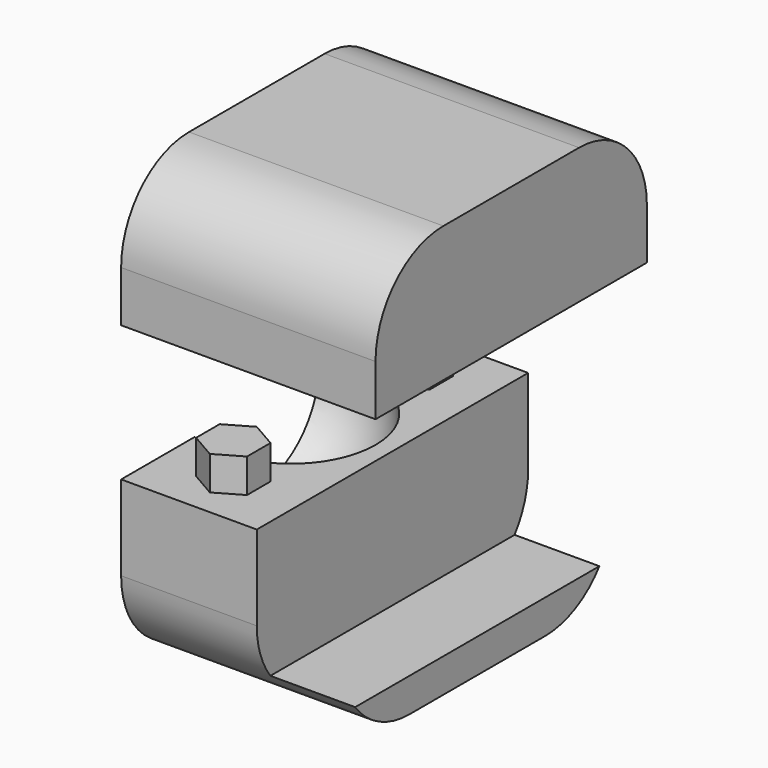
from build123d import *

# Parameters (mm, degrees)
F0_W      = 5
F0_H      = 2
F0_H_2    = 16
F1_DEPTH  = 6
F2_DEPTH  = 5
F4_DEPTH  = 2
F7_W      = 7
F7_H      = 20
F8_DEPTH  = 6.001
F9_DEPTH  = 4
F10_DEPTH = 2
F11_DEPTH = 2
F12_W     = 20
F12_H     = 2
F13_DEPTH = 5
F14_DEPTH = 2
F15_R     = 5
F15_2_R   = 5


with BuildPart() as f1:
    # F0 (on Top) → F1 (new body)
    with BuildSketch(Plane.XY):
        with BuildLine():
            Line((3.3451463953, 0), (-4.6548536047, 0))
            Line((-4.6548536047, 0), (-4.6548536047, -5.417424305))
            ThreePointArc((-4.6548536047, -5.417424305), (-3.6764018232, -5.1054684353), (-2.6548536047, -5))
            ThreePointArc((-2.6548536047, -5), (2.3451463953, -10), (-2.6548536047, -15))
            ThreePointArc((-2.6548536047, -15), (-3.6764018232, -14.8945315647), (-4.6548536047, -14.582575695))
            Line((-4.6548536047, -14.582575695), (-4.6548536047, -20))
            Line((-4.6548536047, -20), (3.3451463953, -20))
            Line((3.3451463953, -20), (3.3451463953, -18))
            Line((3.3451463953, -18), (3.3451463953, -2))
            Line((3.3451463953, -2), (3.3451463953, 0))
        make_face()
        Polygon((-0.6548536047, -18.4641016151), (-2.1548536047, -17.5980762114), (-2.1548536047, -15.8660254038), (-0.6548536047, -15), (0.8451463953, -15.8660254038), (0.8451463953, -17.5980762114), align=None, mode=Mode.SUBTRACT)
        Polygon((-2.1548536047, -4.1339745962), (-2.1548536047, -2.4019237886), (-0.6548536047, -1.5358983849), (0.8451463953, -2.4019237886), (0.8451463953, -4.1339745962), (-0.6548536047, -5), align=None, mode=Mode.SUBTRACT)
        with Locations((5.8451463953, -1)):
            Rectangle(F0_W, F0_H)
        with BuildLine():
            ThreePointArc((-2.6548536047, -5), (-3.6764018232, -5.1054684353), (-4.6548536047, -5.417424305))
            Line((-4.6548536047, -5.417424305), (-4.6548536047, -14.582575695))
            ThreePointArc((-4.6548536047, -14.582575695), (-3.6764018232, -14.8945315647), (-2.6548536047, -15))
            Line((-2.6548536047, -15), (-2.6548536047, -5))
        make_face()
        Polygon((10.3451463953, 0), (8.3451463953, 0), (8.3451463953, -2), (8.3451463953, -18), (8.3451463953, -20), (10.3451463953, -20), align=None)
        with Locations((5.8451463953, -19)):
            Rectangle(F0_W, F0_H)
        with Locations((5.8451463953, -10)):
            Rectangle(F0_W, F0_H_2)
        with BuildLine():
            ThreePointArc((-2.6548536047, -15), (2.3451463953, -10), (-2.6548536047, -5))
            Line((-2.6548536047, -5), (-2.6548536047, -15))
        make_face()
        Polygon((-2.1548536047, -15.8660254038), (-2.1548536047, -17.5980762114), (-0.6548536047, -18.4641016151), (0.8451463953, -17.5980762114), (0.8451463953, -15.8660254038), (-0.6548536047, -15), align=None)
        Polygon((-0.6548536047, -1.5358983849), (-2.1548536047, -2.4019237886), (-2.1548536047, -4.1339745962), (-0.6548536047, -5), (0.8451463953, -4.1339745962), (0.8451463953, -2.4019237886), align=None)
    extrude(amount=F1_DEPTH)

    # F0 (on Top) → F2 (cut)
    with BuildSketch(Plane.XY):
        with Locations((5.8451463953, -10)):
            Rectangle(F0_W, F0_H_2)
    extrude(amount=F2_DEPTH, mode=Mode.SUBTRACT)

    # F0 (on Top) → F3 (revolve, cut)
    with BuildSketch(Plane.XY):
        with BuildLine():
            ThreePointArc((-2.6548536047, -15), (2.3451463953, -10), (-2.6548536047, -5))
            Line((-2.6548536047, -5), (-2.6548536047, -15))
        make_face()
    revolve(axis=Axis((-2.6548536047, -10, 0), (0, 1, 0)), mode=Mode.SUBTRACT)

    # F0 (on Top) → F4 (cut)
    with BuildSketch(Plane.XY):
        Polygon((-2.1548536047, -15.8660254038), (-2.1548536047, -17.5980762114), (-0.6548536047, -18.4641016151), (0.8451463953, -17.5980762114), (0.8451463953, -15.8660254038), (-0.6548536047, -15), align=None)
        Polygon((-0.6548536047, -1.5358983849), (-2.1548536047, -2.4019237886), (-2.1548536047, -4.1339745962), (-0.6548536047, -5), (0.8451463953, -4.1339745962), (0.8451463953, -2.4019237886), align=None)
    extrude(amount=F4_DEPTH, mode=Mode.SUBTRACT)


with BuildPart() as f6_1:
    # F6: instance of F1
    add(f1.part.mirror(Plane.XY.offset(-4)))

    # F7 (on face) → F8 (cut, through all)
    with BuildSketch(Plane.XY.offset(-8)):
        with Locations((6.8451463953, -10)):
            Rectangle(F7_W, F7_H)
    extrude(amount=-F8_DEPTH, mode=Mode.SUBTRACT)

    # F9 (add): faces of the model
    f9_faces = [f6_1.faces().sort_by_distance(p)[0] for p in [
        (-0.6548536047, -3.2679491924, -10),
        (-0.6548536047, -16.7320508076, -10),
    ]]
    extrude(f9_faces, amount=F9_DEPTH)

    # F10 (add): a face of the model
    f10_faces = [f6_1.faces().sort_by_distance(p)[0] for p in [
        (-0.6548536047, -10, -14),
    ]]
    extrude(f10_faces, amount=F10_DEPTH)

    # F11 (add): a face of the model
    f11_faces = [f6_1.faces().sort_by_distance(p)[0] for p in [
        (-0.6548536047, -10, -16),
    ]]
    extrude(f11_faces, amount=F11_DEPTH)

    # F12 (on face) → F13 (join)
    with BuildSketch(Plane.YZ.offset(3.3451463953)):
        with Locations((-10, -17)):
            Rectangle(F12_W, F12_H)
    extrude(amount=F13_DEPTH)

    # F15#2
    f15_2_edges = [f6_1.edges().sort_by_distance(p)[0] for p in [
        (1.845146, 0, -18),
        (1.845146, -20, -18),
    ]]
    fillet(f15_2_edges, radius=F15_2_R)


with BuildPart() as f1_1:
    add(f1.part)

    # F14 (add): a face of the model
    f14_faces = [f1_1.faces().sort_by_distance(p)[0] for p in [
        (2.8451463953, -10, 6),
    ]]
    extrude(f14_faces, amount=F14_DEPTH)

    # F15
    f15_edges = [f1_1.edges().sort_by_distance(p)[0] for p in [
        (2.845146, -20, 8),
        (2.845146, 0, 8),
    ]]
    fillet(f15_edges, radius=F15_R)


solid = Compound([f6_1.part, f1_1.part])
